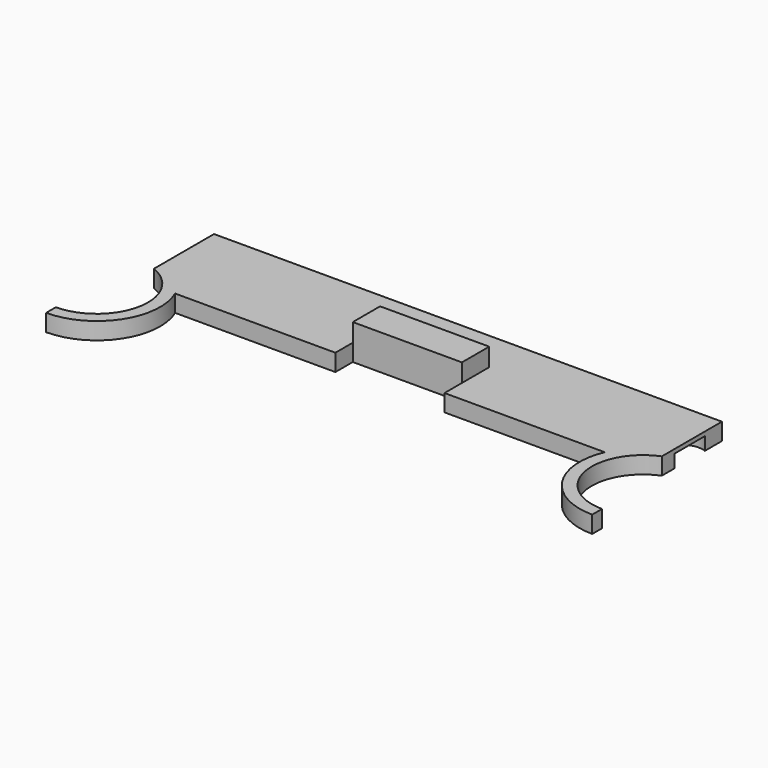
from build123d import *

# Parameters (mm, degrees)
F1_DEPTH = 3.175
F3_DEPTH = 2.413
F4_W     = 20.32
F4_H     = 6.35
F5_DEPTH = 3.3782


with BuildPart() as f1:
    # F0 (on Top) → F1 (new body)
    with BuildSketch(Plane.XY):
        with BuildLine():
            Line((47.28845, 18.161), (-47.28845, 18.161))
            Line((-47.28845, 18.161), (-47.28845, 4.168868))
            ThreePointArc((-47.28845, 4.168868), (-41.500207, -6.479288), (-50.8508, -14.189891))
            Line((-50.8508, -14.189891), (-50.8508, -16.475891))
            ThreePointArc((-50.8508, -16.475891), (-40.986806, -11.161147), (-40.000062, 0))
            Line((-40.000062, 0), (-10.16, 0))
            Line((-10.16, 0), (-10.16, 4.0513))
            Line((-10.16, 4.0513), (10.16, 4.0513))
            Line((10.16, 4.0513), (10.16, 0))
            Line((10.16, 0), (40.000062, 0))
            ThreePointArc((40.000062, 0), (40.986806, -11.161147), (50.8508, -16.475891))
            Line((50.8508, -16.475891), (50.8508, -14.189891))
            ThreePointArc((50.8508, -14.189891), (41.500207, -6.479288), (47.28845, 4.168868))
            Line((47.28845, 4.168868), (47.28845, 18.161))
        make_face()
    extrude(amount=F1_DEPTH)

    # F2 (on face) → F3 (cut)
    with BuildSketch(Plane(origin=(0, 0, 0), x_dir=(1, 0, 0), z_dir=(0, 0, -1))):
        with BuildLine():
            Line((-47.28845, -7.090509), (-47.28845, -14.194691))
            ThreePointArc((-47.28845, -14.194691), (-42.1005, -10.6426), (-47.28845, -7.090509))
        make_face()
        with BuildLine():
            ThreePointArc((47.28845, -7.090509), (42.1005, -10.6426), (47.28845, -14.194691))
            Line((47.28845, -14.194691), (47.28845, -7.090509))
        make_face()
    extrude(amount=-F3_DEPTH, mode=Mode.SUBTRACT)

    # F4 (on face) → F5 (join)
    with BuildSketch(Plane.XY.offset(3.175)):
        with Locations((0, 7.2263)):
            Rectangle(F4_W, F4_H)
    extrude(amount=F5_DEPTH)


solid = f1.part
